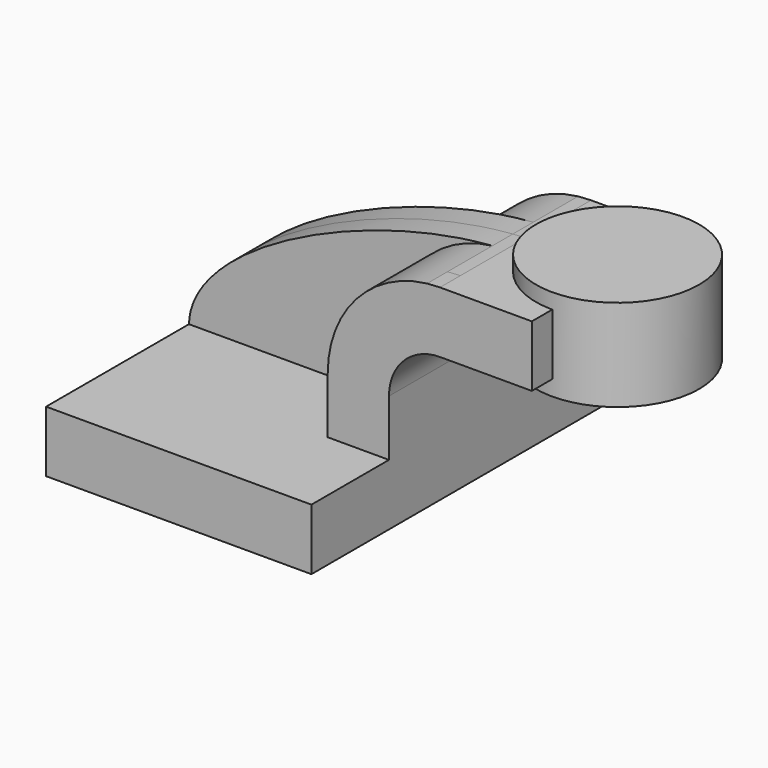
from build123d import *

# Parameters (mm, degrees)
F1_DEPTH = 63.5
F0_W     = 25.4
F0_H     = 19.05
F2_DEPTH = 25.4
F3_DEPTH = 7.9375


with BuildPart() as f1:
    # F0 (on Front) → F1 (new body, symmetric)
    with BuildSketch(Plane.XZ):
        Polygon((22.225, 9.525), (-41.275, 9.525), (-41.275, -9.525), (41.275, -9.525), (41.275, 9.525), align=None)
    extrude(amount=F1_DEPTH, both=True)

    # F0 (on Front) → F2 (join, symmetric)
    with BuildSketch(Plane.XZ):
        with Locations((73.025, 52.4002)):
            Rectangle(F0_W, F0_H)
        with BuildLine():
            Line((22.225, 27.0002), (22.225, 9.525))
            Line((22.225, 9.525), (41.275, 9.525))
            Line((41.275, 9.525), (41.275, 27.0002))
            ThreePointArc((41.275, 27.0002), (45.9246798487, 38.2255201513), (57.15, 42.8752))
            Line((57.15, 42.8752), (60.325, 42.8752))
            Line((60.325, 42.8752), (60.325, 61.9252))
            Line((60.325, 61.9252), (57.15, 61.9252))
            add(Edge.make_bspline(
                [(53.1367765772, 61.6938545028), (54.4911838956, 61.7966953046), (55.8297911563, 61.8741143082), (57.15, 61.9252)],
                knots=[107.8534909228, 107.8534909228, 107.8534909228, 107.8534909228, 111.5045361635, 111.5045361635, 111.5045361635, 111.5045361635], degree=3))
            ThreePointArc((53.1367765772, 61.6938545028), (31.073981774, 50.2337296173), (22.225, 27.0002))
        make_face()
    extrude(amount=F2_DEPTH, both=True)

    # F0 (on Front) + F2_face (on face) → F3 (join, symmetric)
    with BuildSketch(Plane.XZ):
        with BuildLine():
            add(Edge.make_bspline(
                [(-41.275, 9.525), (-40.6705320986, 33.4339088409), (13.1269854637, 58.6558917409), (53.1367765772, 61.6938545028)],
                knots=[0, 0, 0, 0, 107.8534909228, 107.8534909228, 107.8534909228, 107.8534909228], degree=3))
            Line((-41.275, 9.525), (22.225, 9.525))
            Line((22.225, 9.525), (22.225, 27.0002))
            ThreePointArc((22.225, 27.0002), (31.073981774, 50.2337296173), (53.1367765772, 61.6938545028))
        make_face()
    with BuildSketch(Plane(origin=(48.877117708, -25.4, 41.5252289167), x_dir=(1, 0, 0), z_dir=(0, -1, 0))):
        with BuildLine():
            Line((36.847882292, 20.3999710833), (8.272882292, 20.3999710833))
            add(Edge.make_bspline(
                [(4.2596588692, 20.1686255861), (5.6140661876, 20.2714663879), (6.9526734483, 20.3488853915), (8.272882292, 20.3999710833)],
                knots=[107.8534909228, 107.8534909228, 107.8534909228, 107.8534909228, 111.5045361635, 111.5045361635, 111.5045361635, 111.5045361635], degree=3))
            ThreePointArc((4.2596588692, 20.1686255861), (-17.803135934, 8.7085007007), (-26.652117708, -14.5250289167))
            Line((-26.652117708, -14.5250289167), (-26.652117708, -32.0002289167))
            Line((-26.652117708, -32.0002289167), (-7.602117708, -32.0002289167))
            Line((-7.602117708, -32.0002289167), (-7.602117708, -14.5250289167))
            ThreePointArc((-7.602117708, -14.5250289167), (-2.9524378593, -3.2997087653), (8.272882292, 1.3499710833))
            Line((8.272882292, 1.3499710833), (36.847882292, 1.3499710833))
            Line((36.847882292, 1.3499710833), (36.847882292, 20.3999710833))
        make_face()
    extrude(amount=F3_DEPTH, both=True)


with BuildPart() as f4:
    # F0 (on Front) → F4 (revolve)
    with BuildSketch(Plane.XZ):
        Polygon((85.725, 66.675), (85.725, 61.9252), (85.725, 42.8752), (85.725, 38.1), (111.125, 38.1), (111.125, 66.675), align=None)
    revolve(axis=Axis((85.725, 0, 52.3875), (0, 0, 1)))


solid = Compound([f1.part, f4.part])
